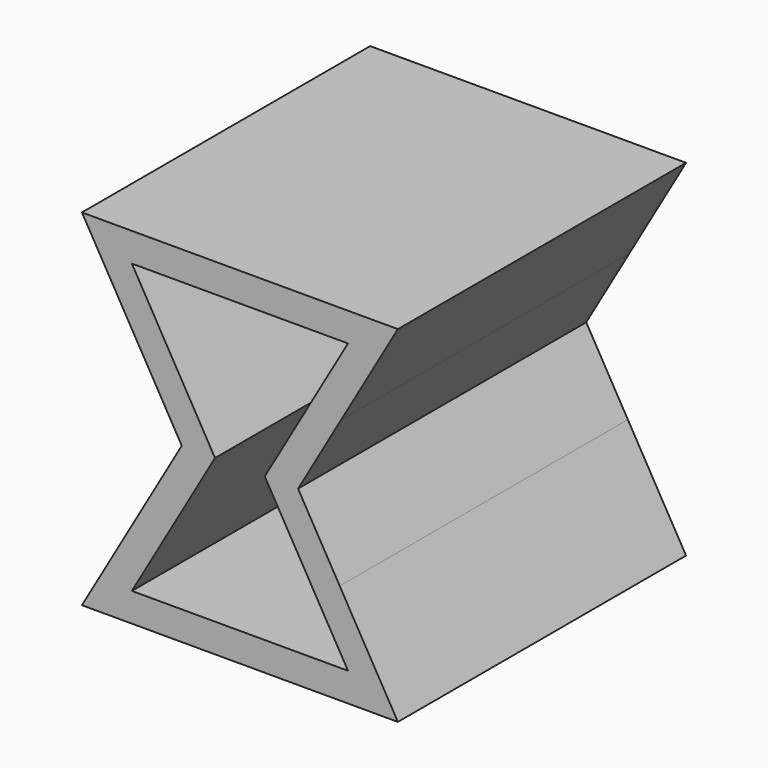
from build123d import *

# Parameters (mm, degrees)
F1_DEPTH = 25


with BuildPart() as f1:
    # F0 (on Front) → F1 (new body)
    with BuildSketch(Plane.XZ):
        Polygon((3.464102, 10), (0.574671, 4.99536), (-3.464102, -2), (18.464102, -2), (14.425329, 4.99536), (11.535898, 10), (14.522771, 15.173416), (18.464102, 22), (-3.464102, 22), (-0.201125, 16.348359), align=None)
        Polygon((15, 0), (0, 0), (5.773503, 10), (0, 20), (15, 20), (9.226497, 10), align=None, mode=Mode.SUBTRACT)
    extrude(amount=F1_DEPTH)


solid = f1.part
